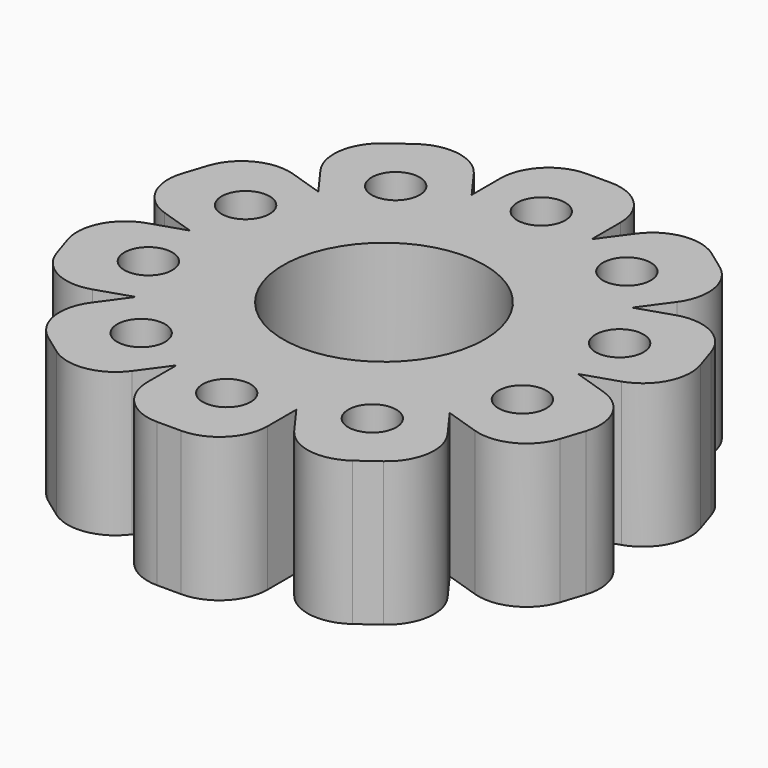
from build123d import *

# Parameters (mm, degrees)
F0_R     = 7.62
F0_R_2   = 5.334
F1_DEPTH = 7.62
F2_R     = 1.27
F3_DEPTH = 7.62
F4_R     = 2.54
F5_COUNT = 10


with BuildPart() as f1:
    # F0 (on Top) → F1 (new body)
    with BuildSketch(Plane.XY):
        Circle(F0_R)
        Circle(F0_R_2, mode=Mode.SUBTRACT)
    extrude(amount=F1_DEPTH)

    # F2 (on face) → F3 (join)
    with BuildSketch(Plane.XY.offset(7.62)):
        with BuildLine():
            ThreePointArc((-3.175, 6.927032), (0, 7.62), (3.175, 6.927032))
            Line((3.175, 6.927032), (3.175, 14.224))
            Line((3.175, 14.224), (-3.175, 14.224))
            Line((-3.175, 14.224), (-3.175, 6.927032))
        make_face()
        with Locations((0, 10.414)):
            Circle(F2_R, mode=Mode.SUBTRACT)
    extrude(amount=-F3_DEPTH)

    # F4
    f4_edges = [f1.edges().sort_by_distance(p)[0] for p in [
        (3.175, 14.224, 3.81),
        (-3.175, 14.224, 3.81),
    ]]
    fillet(f4_edges, radius=F4_R)

    # F5: F1 ×10 about axis
    f5_axis = Axis((0, 0, 0), (0, 0, 1))


with BuildPart() as f1_1:
    add(f1.part)
    for i in range(1, F5_COUNT):
        add(f1.part.rotate(f5_axis, i * 360 / F5_COUNT))


solid = f1_1.part
